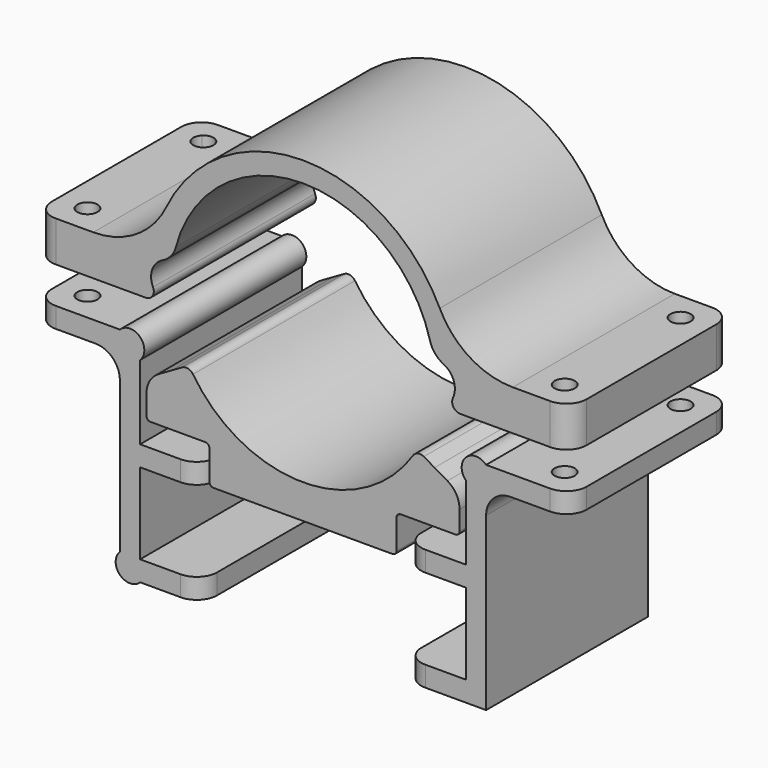
from build123d import *

# Parameters (mm, degrees)
F1_DEPTH = 63.5
F2_R     = 3.175
F3_DEPTH = 93.151971
F4_R     = 6.35
F5_R     = 1.27


with BuildPart() as f1:
    # F0 (on Front) → F1 (new body)
    with BuildSketch(Plane.XZ):
        with BuildLine():
            ThreePointArc((-47.012275, -2.721429), (-47.253846, 2.139134), (-43.983741, 5.743276))
            ThreePointArc((-43.983741, 5.743276), (-41.385266, 7.75115), (-39.873052, 10.666084))
            ThreePointArc((-39.873052, 10.666084), (0, 41.275), (39.873052, 10.666084))
            ThreePointArc((39.873052, 10.666084), (41.385266, 7.75115), (43.983741, 5.743276))
            ThreePointArc((43.983741, 5.743276), (47.253846, 2.139134), (47.012275, -2.721429))
            ThreePointArc((47.012275, -2.721429), (47.160493, -5.167687), (49.307185, -6.35))
            Line((49.307185, -6.35), (83.859651, -6.35))
            Line((83.859651, -6.35), (83.859651, 6.35))
            Line((83.859651, 6.35), (65.761601, 6.35))
            ThreePointArc((65.761601, 6.35), (52.258719, 10.236465), (42.888, 20.706522))
            ThreePointArc((42.888, 20.706522), (0, 47.625), (-42.888, 20.706522))
            ThreePointArc((-42.888, 20.706522), (-52.258719, 10.236465), (-65.761601, 6.35))
            Line((-65.761601, 6.35), (-83.859651, 6.35))
            Line((-83.859651, 6.35), (-83.859651, -6.35))
            Line((-83.859651, -6.35), (-49.307185, -6.35))
            ThreePointArc((-49.307185, -6.35), (-47.160493, -5.167687), (-47.012275, -2.721429))
        make_face()
        with BuildLine():
            Line((-51.067789, -79.135843), (-51.067789, -53.735843))
            Line((-51.067789, -53.735843), (-32.017789, -53.735843))
            Line((-32.017789, -53.735843), (-32.017789, -47.385843))
            Line((-32.017789, -47.385843), (-51.067789, -47.385843))
            Line((-51.067789, -47.385843), (-51.067789, -24.134036))
            ThreePointArc((-51.067789, -24.134036), (-51.067789, -17.784036), (-57.417789, -17.784036))
            Line((-57.417789, -17.784036), (-83.859651, -17.784036))
            Line((-83.859651, -17.784036), (-83.859651, -24.134036))
            Line((-83.859651, -24.134036), (-65.037789, -24.134036))
            ThreePointArc((-65.037789, -24.134036), (-59.649635, -26.365882), (-57.417789, -31.754036))
            Line((-57.417789, -31.754036), (-57.417789, -47.385843))
            Line((-57.417789, -47.385843), (-57.417789, -79.135843))
            ThreePointArc((-57.417789, -79.135843), (-57.417789, -85.485843), (-51.067789, -85.485843))
            Line((-51.067789, -85.485843), (-32.017789, -85.485843))
            Line((-32.017789, -85.485843), (-32.017789, -79.135843))
            Line((-32.017789, -79.135843), (-51.067789, -79.135843))
        make_face()
        with BuildLine():
            ThreePointArc((-34.488708, -22.674979), (-36.02511, -21.598879), (-37.88109, -21.870657))
            Line((-37.88109, -21.870657), (-41.24446, -23.8125))
            Line((-41.24446, -23.8125), (-45.287001, -26.146462))
            ThreePointArc((-45.287001, -26.146462), (-48.076114, -28.935576), (-49.097001, -32.745576))
            Line((-49.097001, -32.745576), (-49.097001, -40.138431))
            Line((-49.097001, -40.138431), (-29.339749, -40.138431))
            Line((-29.339749, -40.138431), (-29.339749, -51.936264))
            Line((-29.339749, -51.936264), (29.339749, -51.936264))
            Line((29.339749, -51.936264), (29.339749, -40.138431))
            Line((29.339749, -40.138431), (49.097001, -40.138431))
            Line((49.097001, -40.138431), (49.097001, -32.745576))
            ThreePointArc((49.097001, -32.745576), (48.076114, -28.935576), (45.287001, -26.146462))
            Line((45.287001, -26.146462), (41.24446, -23.8125))
            Line((41.24446, -23.8125), (37.88109, -21.870657))
            ThreePointArc((37.88109, -21.870657), (36.02511, -21.598879), (34.488708, -22.674979))
            ThreePointArc((34.488708, -22.674979), (0, -41.275), (-34.488708, -22.674979))
        make_face()
        with BuildLine():
            Line((32.017789, -53.735843), (51.067789, -53.735843))
            Line((51.067789, -53.735843), (51.067789, -79.135843))
            Line((51.067789, -79.135843), (32.017789, -79.135843))
            Line((32.017789, -79.135843), (32.017789, -85.485843))
            Line((32.017789, -85.485843), (57.417789, -85.485843))
            Line((57.417789, -85.485843), (57.417789, -47.385843))
            Line((57.417789, -47.385843), (57.417789, -31.754036))
            ThreePointArc((57.417789, -31.754036), (59.649635, -26.365882), (65.037789, -24.134036))
            Line((65.037789, -24.134036), (83.859651, -24.134036))
            Line((83.859651, -24.134036), (83.859651, -17.784036))
            Line((83.859651, -17.784036), (57.417789, -17.784036))
            ThreePointArc((57.417789, -17.784036), (51.067789, -17.784036), (51.067789, -24.134036))
            Line((51.067789, -24.134036), (51.067789, -47.385843))
            Line((51.067789, -47.385843), (32.017789, -47.385843))
            Line((32.017789, -47.385843), (32.017789, -53.735843))
        make_face()
    extrude(amount=F1_DEPTH)

    # F2 (on face) → F3 (cut, through all)
    with BuildSketch(Plane.XY.offset(6.35)):
        with BuildLine():
            ThreePointArc((-71.635626, -9.049025), (-73.595606, -6.115708), (-77.05569, -6.803961))
            ThreePointArc((-77.05569, -6.803961), (-77.05569, -11.294089), (-72.565562, -11.294089))
            ThreePointArc((-72.565562, -11.294089), (-71.877308, -10.264045), (-71.635626, -9.049025))
        make_face()
        with Locations((-74.810626, -54.450975)):
            Circle(F2_R)
        with Locations((74.810626, -54.450975)):
            Circle(F2_R)
        with Locations((74.810626, -9.049025)):
            Circle(F2_R)
    extrude(amount=-F3_DEPTH, mode=Mode.SUBTRACT)

    # F4
    f4_edges = [f1.edges().sort_by_distance(p)[0] for p in [
        (-83.859651, 0, 0),
        (-83.859651, 0, -20.959036),
        (-83.859651, -63.5, 0),
        (-83.859651, -63.5, -20.959036),
        (83.859651, -63.5, 0),
        (83.859651, 0, 0),
        (83.859651, 0, -20.959036),
        (83.859651, -63.5, -20.959036),
        (32.017789, 0, -82.310843),
        (32.017789, 0, -50.560843),
        (-32.017789, 0, -50.560843),
        (-32.017789, 0, -82.310843),
        (32.017789, -63.5, -82.310843),
        (32.017789, -63.5, -50.560843),
        (-32.017789, -63.5, -50.560843),
        (-32.017789, -63.5, -82.310843),
    ]]
    fillet(f4_edges, radius=F4_R)

    # F5
    f5_edges = [f1.edges().sort_by_distance(p)[0] for p in [
        (29.339749, -31.75, -40.138431),
        (29.339749, -31.75, -51.936264),
        (-29.339749, -31.75, -51.936264),
        (-29.339749, -31.75, -40.138431),
        (49.097001, -31.75, -40.138431),
        (-49.097001, -31.75, -40.138431),
    ]]
    fillet(f5_edges, radius=F5_R)


solid = f1.part
